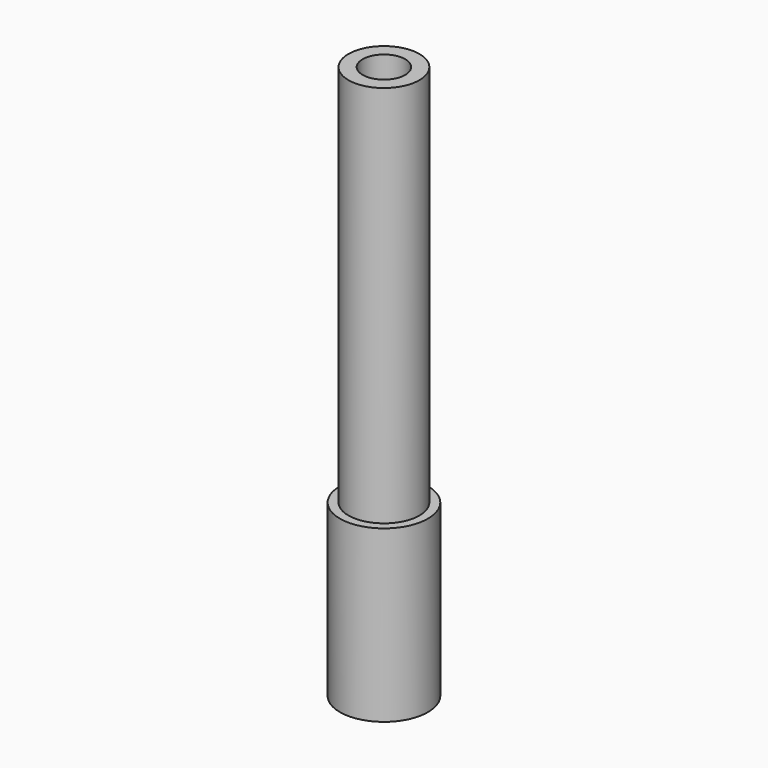
from build123d import *

# Parameters (mm, degrees)
F0_W = 0.5
F0_H = 13.5


with BuildPart() as f1:
    # F0 (on Front) → F1 (revolve)
    with BuildSketch(Plane.XZ):
        Polygon((-1.55, -6.604333), (-1, -6.604333), (-1, -1.134333), (-0.75, -1.134333), (-0.75, -0.604333), (-1.25, -0.604333), (-1.55, -0.604333), align=None)
    revolve(axis=Axis((0, 0, -3.604333), (0, 0, 1)))


with BuildPart() as f2:
    # F0 (on Front) → F2 (revolve)
    with BuildSketch(Plane.XZ):
        with Locations((-1, 6.145667)):
            Rectangle(F0_W, F0_H)
    revolve(axis=Axis((0, 0, 6.145667), (0, 0, 1)))


solid = Compound([f1.part, f2.part])
